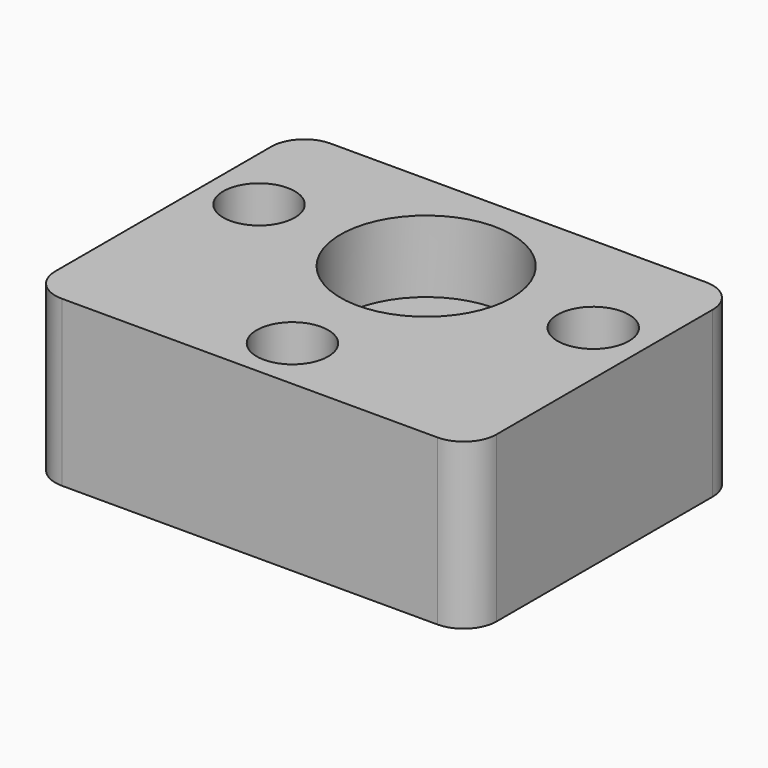
from build123d import *

# Parameters (mm, degrees)
F0_W      = 29.9564684167
F0_H      = 51
F0_R      = 5.425
F0_R_2    = 5.95
F1_DEPTH  = 25
F0_W_2    = 18.5217657917
F2_DEPTH  = 25
F0_R_3    = 3.415
F3_DEPTH  = 3.55
F4_R      = 2.34
F5_DEPTH  = 7.5
F7_START  = 14.1
F6_R      = 13
F7_DEPTH  = 10.9
F8_DEPTH  = 10.9
F9_R      = 2.5
F10_DEPTH = 5
F10_TAPER = 15
F11_R     = 5


with BuildPart() as f1:
    # F0 (on Top) → F1 (new body)
    with BuildSketch(Plane.XY):
        with Locations((0, -8)):
            Rectangle(F0_W, F0_H)
        with Locations((0, -25.365)):
            Circle(F0_R, mode=Mode.SUBTRACT)
        Circle(F0_R_2, mode=Mode.SUBTRACT)
    extrude(amount=F1_DEPTH)

    # F0 (on Top) → F2 (join)
    with BuildSketch(Plane.XY):
        with Locations((-24.2391171042, -8)):
            Rectangle(F0_W_2, F0_H)
        with Locations((-25.365, 0)):
            Circle(F0_R, mode=Mode.SUBTRACT)
        with Locations((24.2391171042, -8)):
            Rectangle(F0_W_2, F0_H)
        with Locations((25.365, 0)):
            Circle(F0_R, mode=Mode.SUBTRACT)
    extrude(amount=F2_DEPTH)

    # F0 (on Top) → F3 (join)
    with BuildSketch(Plane.XY):
        with Locations((-25.365, 0)):
            Circle(F0_R)
        with Locations((-25.365, 0)):
            Circle(F0_R_3, mode=Mode.SUBTRACT)
        with Locations((25.365, 0)):
            Circle(F0_R)
        with Locations((25.365, 0)):
            Circle(F0_R_3, mode=Mode.SUBTRACT)
        with Locations((0, -25.365)):
            Circle(F0_R)
        with Locations((0, -25.365)):
            Circle(F0_R_3, mode=Mode.SUBTRACT)
    extrude(amount=F3_DEPTH)

    # F4 (on face) → F5 (cut)
    with BuildSketch(Plane(origin=(0, 17.5, 0), x_dir=(-1, 0, 0), z_dir=(0, 1, 0))):
        with Locations((-10.9382342083, 4.24)):
            Circle(F4_R)
        with Locations((10.9382342083, 4.24)):
            Circle(F4_R)
    extrude(amount=-F5_DEPTH, mode=Mode.SUBTRACT)

    # F6 (on Top) → F7 (cut)
    with BuildSketch(Plane.XY.offset(F7_START)):
        Circle(F6_R)
    extrude(amount=F7_DEPTH, mode=Mode.SUBTRACT)

    # F6 (on Top) → F8 (cut)
    with BuildSketch(Plane.XY):
        Circle(F6_R)
    extrude(amount=F8_DEPTH, mode=Mode.SUBTRACT)

    # F9 (on Top) → F10 (cut)
    with BuildSketch(Plane.XY):
        with Locations((23.62, -23.62)):
            Circle(F9_R)
        with Locations((-23.62, -23.62)):
            Circle(F9_R)
    extrude(amount=F10_DEPTH, taper=F10_TAPER, mode=Mode.SUBTRACT)

    # F11
    f11_edges = [f1.edges().sort_by_distance(p)[0] for p in [
        (33.5, -33.5, 12.5),
        (-33.5, -33.5, 12.5),
        (-33.5, 17.5, 12.5),
        (33.5, 17.5, 12.5),
    ]]
    fillet(f11_edges, radius=F11_R)


solid = f1.part
